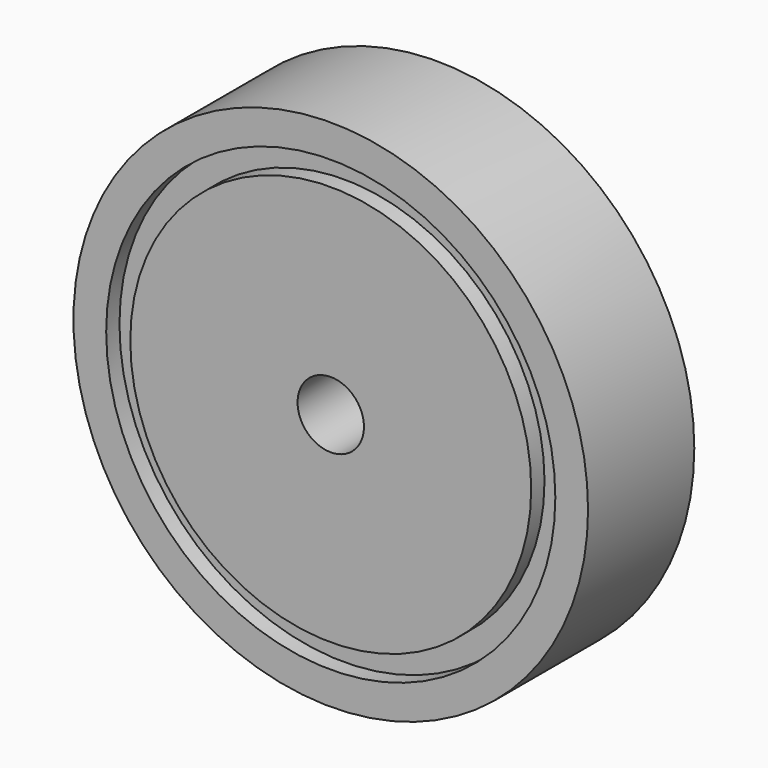
from build123d import *

# Parameters (mm, degrees)
F0_R     = 77.5
F1_DEPTH = 20
F2_R     = 67.6447
F2_R_2   = 60.383238
F3_DEPTH = 5
F4_R     = 67.6447
F4_R_2   = 60.383238
F5_DEPTH = 5
F6_R     = 10
F7_DEPTH = 40.001


with BuildPart() as f1:
    # F0 (on Front) → F1 (new body, symmetric)
    with BuildSketch(Plane.XZ):
        Circle(F0_R)
    extrude(amount=F1_DEPTH, both=True)

    # F2 (on face) → F3 (cut)
    with BuildSketch(Plane(origin=(0, 20, 0), x_dir=(-1, 0, 0), z_dir=(0, 1, 0))):
        Circle(F2_R)
        Circle(F2_R_2, mode=Mode.SUBTRACT)
    extrude(amount=-F3_DEPTH, mode=Mode.SUBTRACT)

    # F4 (on face) → F5 (cut)
    with BuildSketch(Plane.XZ.offset(20)):
        Circle(F4_R)
        Circle(F4_R_2, mode=Mode.SUBTRACT)
    extrude(amount=-F5_DEPTH, mode=Mode.SUBTRACT)

    # F6 (on face) → F7 (cut, through all)
    with BuildSketch(Plane.XZ.offset(20)):
        Circle(F6_R)
    extrude(amount=-F7_DEPTH, mode=Mode.SUBTRACT)


solid = f1.part
